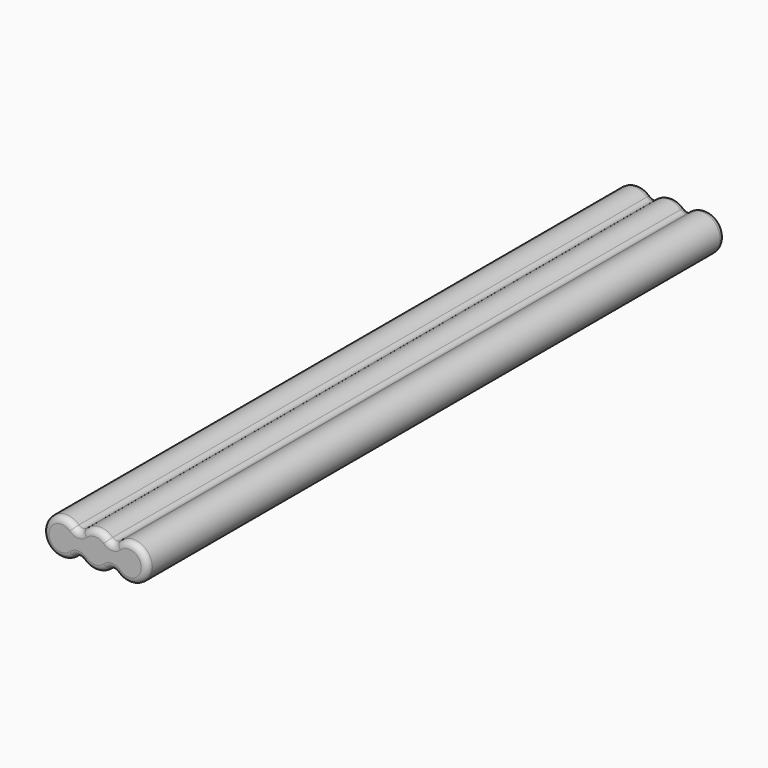
from build123d import *

# Parameters (mm, degrees)
F1_DEPTH = 74.6125
F2_R     = 1.27


with BuildPart() as f1:
    # F0 (on Front) → F1 (new body, symmetric)
    with BuildSketch(Plane.XZ):
        with BuildLine():
            ThreePointArc((3.4925, -1.522677), (10.795, 0), (3.4925, 1.522677))
            ThreePointArc((3.4925, 1.522677), (0, 3.81), (-3.4925, 1.522677))
            ThreePointArc((-3.4925, 1.522677), (-10.795, 0), (-3.4925, -1.522677))
            ThreePointArc((-3.4925, -1.522677), (0, -3.81), (3.4925, -1.522677))
        make_face()
    extrude(amount=F1_DEPTH, both=True)

    # F2
    f2_edges = [f1.edges().sort_by_distance(p)[0] for p in [
        (0, 74.6125, 3.81),
        (-10.795, 74.6125, 0),
        (0, 74.6125, -3.81),
        (10.795, 74.6125, 0),
        (3.4925, 0, 1.522677),
        (-3.4925, 0, 1.522677),
        (3.4925, 0, -1.522677),
        (-3.4925, 0, -1.522677),
        (0, -74.6125, 3.81),
        (-10.795, -74.6125, 0),
        (0, -74.6125, -3.81),
        (10.795, -74.6125, 0),
    ]]
    fillet(f2_edges, radius=F2_R)


solid = f1.part
